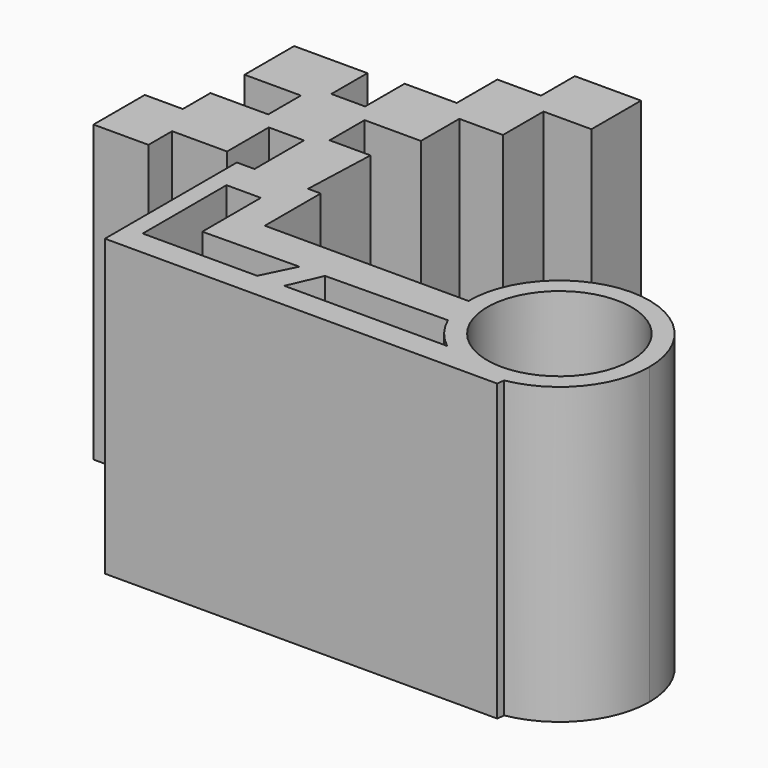
from build123d import *

# Parameters (mm, degrees)
F0_R     = 17.819723
F1_DEPTH = 72.898


with BuildPart() as f1:
    # F0 (on Top) → F1 (new body)
    with BuildSketch(Plane.XY):
        Polygon((16.365739, 42.712353), (16.365739, 58.036424), (0, 58.036424), (0, 47.588196), (-10.799658, 47.588196), (-10.799658, 35.050321), (-23.685807, 35.050321), (-23.685807, 22.860721), (-32.044392, 22.860721), (-32.044392, 34.0055), (-50.154656, 34.0055), (-50.154656, 18.681431), (-36.223684, 18.681431), (-36.223684, 8.581474), (-50.50293, 8.581474), (-50.50293, 0.048754), (-59.906334, 0.048754), (-59.906334, -15.797727), (-46.323638, -15.797727), (-46.323638, -8.483966), (-32.740939, -8.483966), (-32.740939, 4.402183), (-24.034083, 4.402183), (-24.034083, -10.892829), (-10.797826, -10.892829), (-10.103109, 7.536652), (-20.203065, 7.536652), (-20.203065, 18.333156), (-10.103109, 18.333156), (-6.272093, 18.333156), (-6.272093, 30.174481), (4.524411, 30.174481), (4.524411, 42.712353), align=None)
        with BuildLine():
            Line((-7.66519, -10.892829), (-10.797826, -10.892829))
            Line((-10.797826, -10.892829), (-24.034083, -10.892829))
            Line((-24.034083, -10.892829), (-28.387511, -10.892829))
            Line((-28.387511, -10.892829), (-28.387511, -46.7868))
            Line((-28.387511, -46.7868), (-28.387511, -51.6636))
            Line((-28.387511, -51.6636), (68.580002, -51.6636))
            Line((68.580002, -51.6636), (68.795034, -49.802116))
            ThreePointArc((68.795034, -49.802116), (59.54773, -49.482859), (51.229698, -45.430098))
            Line((51.229698, -45.430098), (10.961137, -45.430098))
            Line((10.961137, -45.430098), (4.253947, -45.430098))
            Line((4.253947, -45.430098), (-7.66519, -45.430098))
            Line((-7.66519, -45.430098), (-24.034083, -45.430098))
            Line((-24.034083, -45.430098), (-24.034083, -19.541675))
            Line((-24.034083, -19.541675), (-15.543758, -19.541675))
            Line((-15.543758, -19.541675), (-15.543758, -32.4612))
            Line((-15.543758, -32.4612), (-15.543758, -37.642799))
            Line((-15.543758, -37.642799), (8.223667, -37.360428))
            Line((8.223667, -37.360428), (14.522387, -37.285595))
            Line((14.522387, -37.285595), (44.588531, -36.928391))
            ThreePointArc((44.588531, -36.928391), (43.183524, -32.642564), (42.671578, -28.161463))
            Line((42.671578, -28.161463), (-7.66519, -28.161463))
            Line((-7.66519, -28.161463), (-7.66519, -10.892829))
        make_face()
        with BuildLine():
            ThreePointArc((87.174887, -27.8892), (64.786265, -5.637128), (42.671578, -28.161463))
            ThreePointArc((42.671578, -28.161463), (43.183524, -32.642564), (44.588531, -36.928391))
            ThreePointArc((44.588531, -36.928391), (47.386105, -41.587797), (51.229698, -45.430098))
            ThreePointArc((51.229698, -45.430098), (59.54773, -49.482859), (68.795034, -49.802116))
            ThreePointArc((68.795034, -49.802116), (81.971578, -42.189505), (87.174887, -27.8892))
        make_face()
        with Locations((64.9224, -27.8892)):
            Circle(F0_R, mode=Mode.SUBTRACT)
        Polygon((10.961137, -45.430098), (14.522387, -37.285595), (8.223667, -37.360428), (4.253947, -45.430098), align=None)
    extrude(amount=F1_DEPTH)


solid = f1.part
